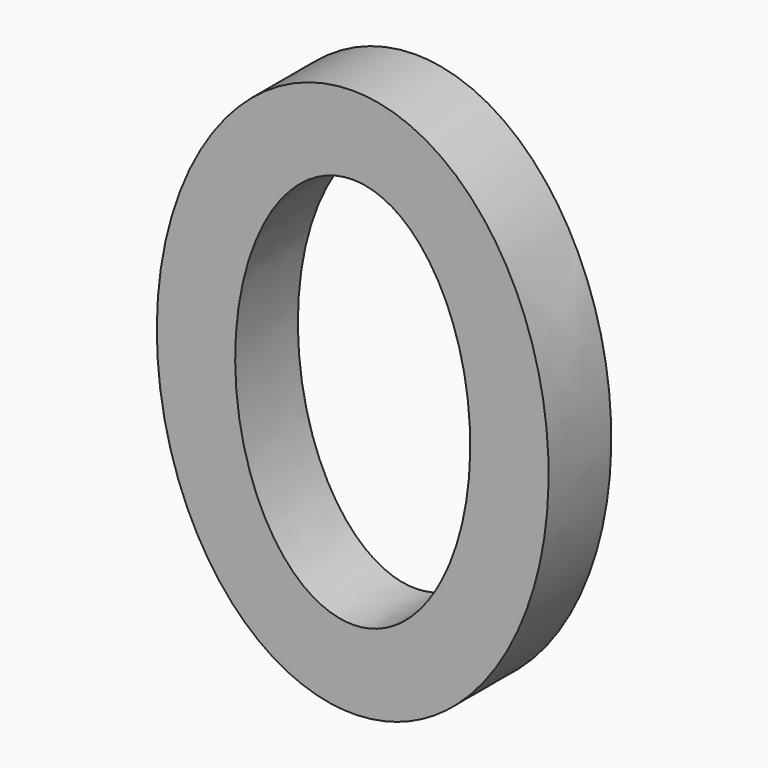
from build123d import *

# Parameters (mm, degrees)
F1_DEPTH = 12.7


with BuildPart() as f1:
    # F0 (on Front) → F1 (new body)
    with BuildSketch(Plane.XZ):
        with BuildLine():
            add(Edge.make_bspline(
                [(0, 44.45), (-54.992613, 44.45), (-27.496307, -22.225), (0, -88.9), (27.496307, -22.225), (54.992613, 44.45), (0, 44.45)],
                knots=[0, 0, 0, 2.094395, 2.094395, 4.18879, 4.18879, 6.283185, 6.283185, 6.283185], degree=2, weights=[1, 0.5, 1, 0.5, 1, 0.5, 1]))
        make_face()
        with BuildLine():
            add(Edge.make_bspline(
                [(0, 31.75), (-32.995568, 31.75), (-16.497784, -15.875), (0, -63.5), (16.497784, -15.875), (32.995568, 31.75), (0, 31.75)],
                knots=[0, 0, 0, 2.094395, 2.094395, 4.18879, 4.18879, 6.283185, 6.283185, 6.283185], degree=2, weights=[1, 0.5, 1, 0.5, 1, 0.5, 1]))
        make_face(mode=Mode.SUBTRACT)
    extrude(amount=F1_DEPTH)


solid = f1.part
